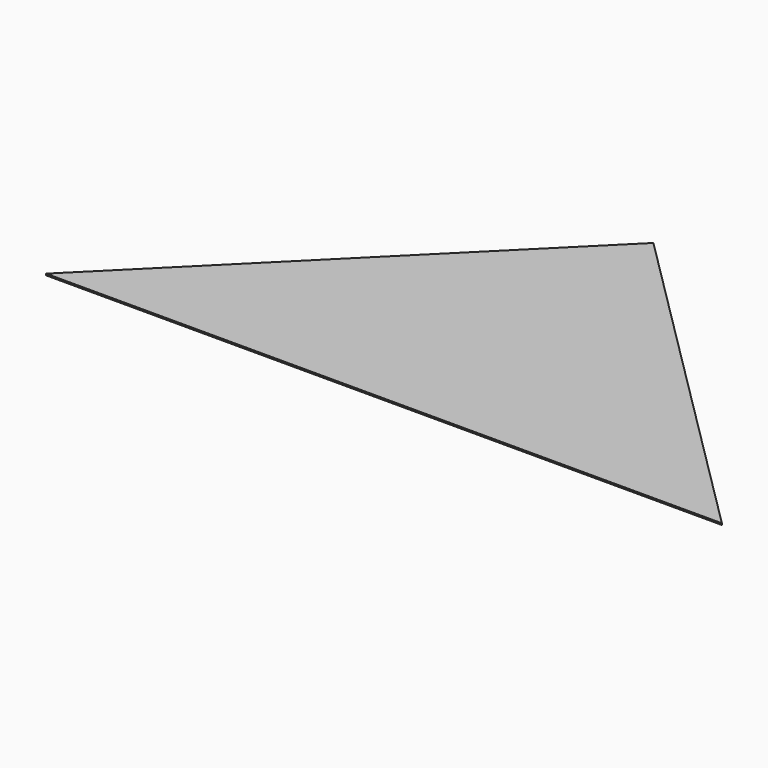
from build123d import *

# Parameters (mm, degrees)
PAD_DEPTH = 1


with BuildPart() as part:
    # Sketch → Pad (new body)
    with BuildSketch(Plane.XY):
        Polygon((-215.9, 0), (0, 215.151644), (215.9, 0), (0, 0), align=None)
    extrude(amount=PAD_DEPTH)


solid = part.part
